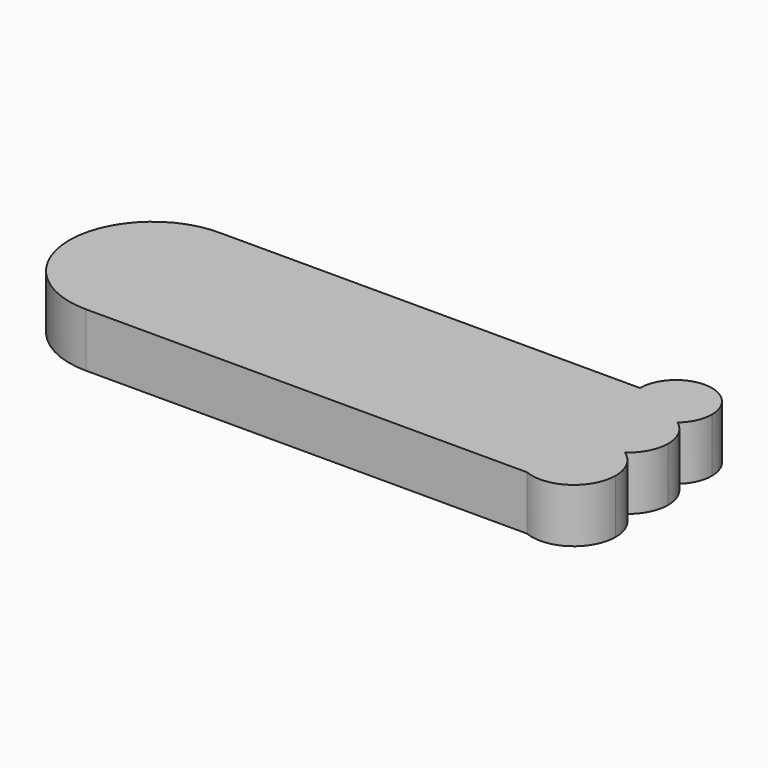
from build123d import *

# Parameters (mm, degrees)
F1_DEPTH = 2.54


with BuildPart() as f1:
    # F0 (on Top) → F1 (new body)
    with BuildSketch(Plane.XY):
        with BuildLine():
            ThreePointArc((-48.2069574252, 23.9459875329), (-45.4479490063, 25.0952354669), (-44.306015985, 27.8572795006))
            ThreePointArc((-44.306015985, 27.8572795006), (-45.4187538691, 30.5897381841), (-48.123835931, 31.7674678193))
            ThreePointArc((-48.123835931, 31.7674678193), (-52.1284065306, 27.8988439109), (-48.2069574252, 23.9459875329))
        make_face()
        with BuildLine():
            ThreePointArc((-48.123835931, 31.7674678193), (-45.4187538691, 30.5897381841), (-44.306015985, 27.8572795006))
            ThreePointArc((-44.306015985, 27.8572795006), (-45.4479490063, 25.0952354669), (-48.2069574252, 23.9459875329))
            Line((-48.2069574252, 23.9459875329), (-27.4824430727, 23.9459875329))
            ThreePointArc((-27.4824430727, 23.9459875329), (-28.698975557, 25.5773806564), (-27.8223428434, 27.4139290206))
            ThreePointArc((-27.8223428434, 27.4139290206), (-28.6236525625, 28.9443668487), (-27.8413020228, 30.4845826922))
            ThreePointArc((-27.8413020228, 30.4845826922), (-28.276159726, 31.0616081435), (-28.4305025642, 31.7674678193))
            Line((-28.4305025642, 31.7674678193), (-48.123835931, 31.7674678193))
        make_face()
        with BuildLine():
            ThreePointArc((-25.048035327, 31.7674678193), (-26.7392689456, 33.4587014379), (-28.4305025642, 31.7674678193))
            ThreePointArc((-28.4305025642, 31.7674678193), (-28.276159726, 31.0616081435), (-27.8413020228, 30.4845826922))
            ThreePointArc((-27.8413020228, 30.4845826922), (-26.7392689456, 30.8404211594), (-25.6372358685, 30.4845826922))
            ThreePointArc((-25.6372358685, 30.4845826922), (-25.2023781652, 31.0616081435), (-25.048035327, 31.7674678193))
        make_face()
        with BuildLine():
            ThreePointArc((-27.8223428434, 27.4139290206), (-28.698975557, 25.5773806564), (-27.4824430727, 23.9459875329))
            ThreePointArc((-27.4824430727, 23.9459875329), (-25.6406423469, 24.1353310392), (-24.7701720222, 25.7694553584))
            ThreePointArc((-24.7701720222, 25.7694553584), (-25.0057724539, 26.7034428352), (-25.6561950478, 27.4139290206))
            ThreePointArc((-25.6561950478, 27.4139290206), (-26.7392689456, 27.0715820895), (-27.8223428434, 27.4139290206))
        make_face()
        with BuildLine():
            ThreePointArc((-25.6372358685, 30.4845826922), (-26.7392689456, 30.8404211594), (-27.8413020228, 30.4845826922))
            ThreePointArc((-27.8413020228, 30.4845826922), (-26.7392689456, 30.0762342007), (-25.6372358685, 30.4845826922))
        make_face()
        with BuildLine():
            ThreePointArc((-25.6372358685, 30.4845826922), (-26.7392689456, 30.0762342007), (-27.8413020228, 30.4845826922))
            ThreePointArc((-27.8413020228, 30.4845826922), (-28.6236525625, 28.9443668487), (-27.8223428434, 27.4139290206))
            ThreePointArc((-27.8223428434, 27.4139290206), (-26.7392689456, 27.7385522818), (-25.6561950478, 27.4139290206))
            ThreePointArc((-25.6561950478, 27.4139290206), (-25.0671441604, 28.0870737296), (-24.8548494107, 28.9560016245))
            ThreePointArc((-24.8548494107, 28.9560016245), (-25.0618111008, 29.8145889307), (-25.6372358685, 30.4845826922))
        make_face()
        with BuildLine():
            ThreePointArc((-25.6561950478, 27.4139290206), (-26.7392689456, 27.7385522818), (-27.8223428434, 27.4139290206))
            ThreePointArc((-27.8223428434, 27.4139290206), (-26.7392689456, 27.0715820895), (-25.6561950478, 27.4139290206))
        make_face()
    extrude(amount=F1_DEPTH)


solid = f1.part
